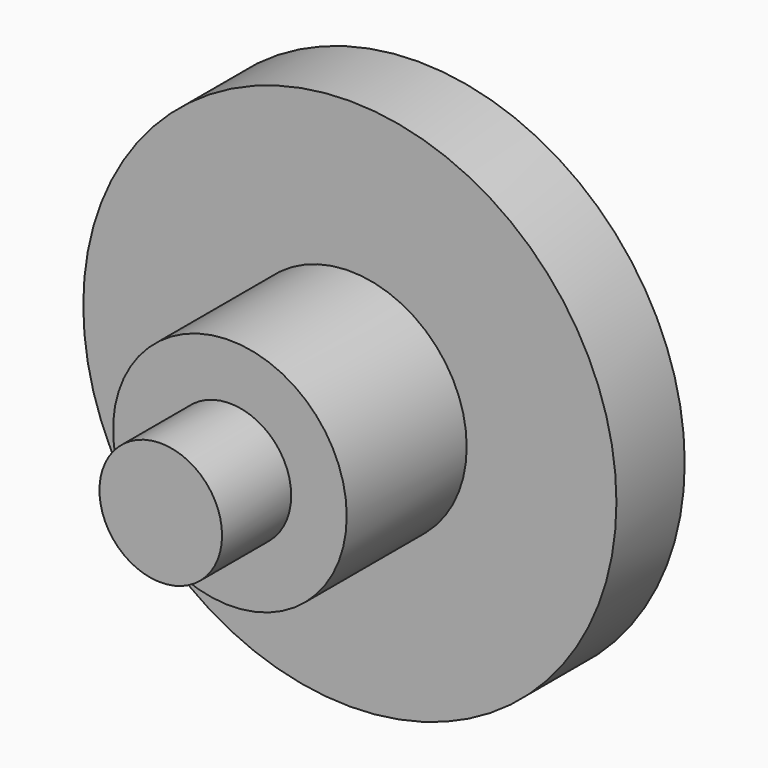
from build123d import *

# Parameters (mm, degrees)
F0_R     = 12.71
F1_DEPTH = 4.07
F2_R     = 5.5707205992
F3_DEPTH = 11.22
F4_R     = 2.9226210924
F5_DEPTH = 4.12
F6_R     = 2.375
F7_DEPTH = 3.02


with BuildPart() as f1:
    # F0 (on Front) → F1 (new body)
    with BuildSketch(Plane.XZ):
        Circle(F0_R)
    extrude(amount=F1_DEPTH)

    # F2 (on Front) → F3 (join)
    with BuildSketch(Plane.XZ):
        Circle(F2_R)
    extrude(amount=F3_DEPTH)

    # F4 (on face) → F5 (join)
    with BuildSketch(Plane.XZ.offset(11.22)):
        Circle(F4_R)
    extrude(amount=F5_DEPTH)

    # F6 (on face) → F7 (cut, symmetric)
    with BuildSketch(Plane.XZ):
        Circle(F6_R)
    extrude(amount=F7_DEPTH, both=True, mode=Mode.SUBTRACT)


solid = f1.part
